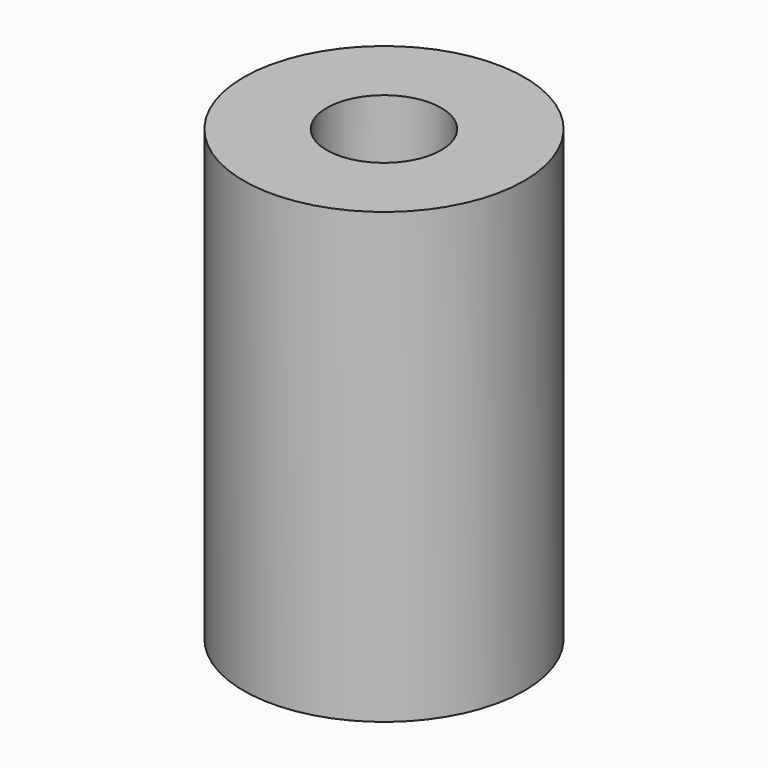
from build123d import *

# Parameters (mm, degrees)
CYLINDER_R     = 0.95
CYLINDER_DEPTH = 2
TUBE005_R      = 1.25
TUBE005_R_2    = 0.51
TUBE005_DEPTH  = 4


with BuildPart() as cylinder:
    # Cylinder → Cylinder (new body)
    with BuildSketch(Plane.XY.offset(1)):
        Circle(CYLINDER_R)
    extrude(amount=CYLINDER_DEPTH)


with BuildPart() as cut:
    # Tube005 → Tube005 (new body)
    with BuildSketch(Plane.XY):
        Circle(TUBE005_R)
        Circle(TUBE005_R_2, mode=Mode.SUBTRACT)
    extrude(amount=TUBE005_DEPTH)

    # Cut: cut Cylinder
    add(cylinder.part, mode=Mode.SUBTRACT)


solid = cut.part
